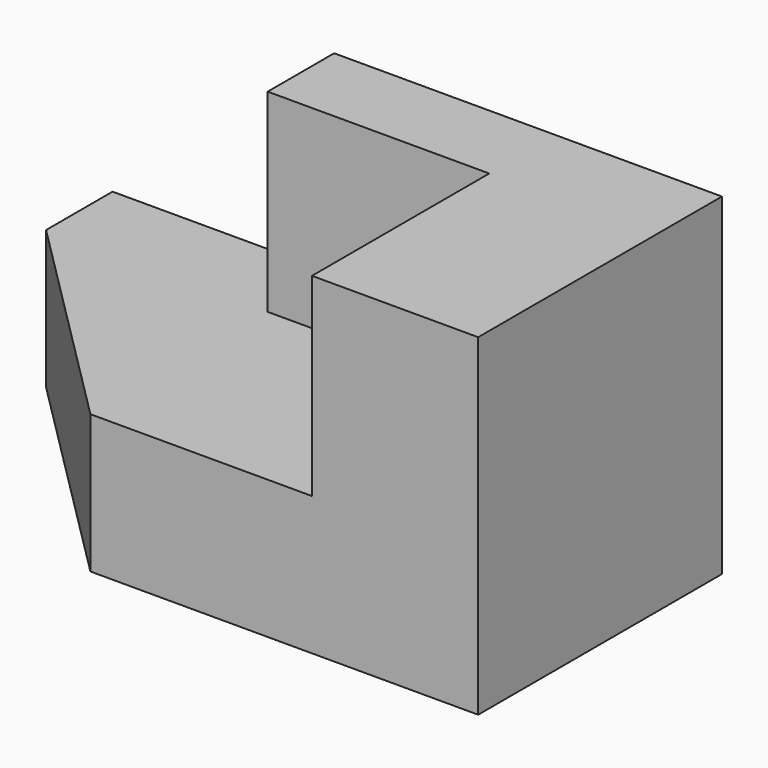
from build123d import *

# Parameters (mm, degrees)
F0_W      = 1778
F0_H      = 1397
F1_DEPTH  = 635
F2_W      = 762
F2_H      = 1016
F3_DEPTH  = 1143
F5_DEPTH  = 889
F3_FACE_W = 762
F3_FACE_H = 1016
F6_DEPTH  = 254
F8_DEPTH  = 635


with BuildPart() as f1:
    # F0 (on Top) → F1 (new body)
    with BuildSketch(Plane.XY):
        with Locations((-889, 698.5)):
            Rectangle(F0_W, F0_H)
    extrude(amount=F1_DEPTH)

    # F2 (on face) → F3 (join)
    with BuildSketch(Plane.XY.offset(635)):
        with Locations((-381, 508)):
            Rectangle(F2_W, F2_H)
    extrude(amount=F3_DEPTH)

    # F4 (on face) → F5 (join)
    with BuildSketch(Plane.XY.offset(635)):
        Polygon((0, 1016), (0, 1397), (-1778, 1397), (-1778, 1016), (-762, 1016), align=None)
    extrude(amount=F5_DEPTH)

    # F3_face (on face) → F6 (cut)
    with BuildSketch(Plane(origin=(-381, 508, 1778), x_dir=(1, 0, 0), z_dir=(0, 0, 1))):
        Rectangle(F3_FACE_W, F3_FACE_H)
    extrude(amount=-F6_DEPTH, mode=Mode.SUBTRACT)

    # F7 (on face) → F8 (join)
    with BuildSketch(Plane(origin=(0, 0, 0), x_dir=(1, 0, 0), z_dir=(0, 0, -1))):
        Polygon((-2794, -1397), (-1778, -1397), (-1778, 0), (-2794, -1016), align=None)
    extrude(amount=-F8_DEPTH)


solid = f1.part
